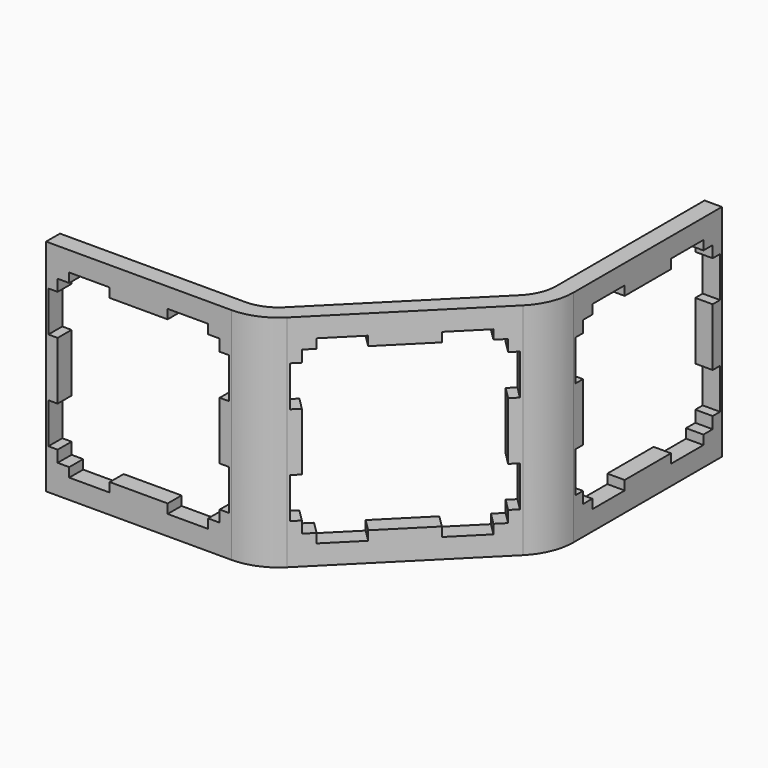
from build123d import *

# Parameters (mm, degrees)
PAD_DEPTH       = 19
POCKET_DEPTH    = 11.62232
POCKET002_DEPTH = 1.501
POCKET003_DEPTH = 1.501


with BuildPart() as part:
    # Sketch → Pad (new body)
    with BuildSketch(Plane.XY):
        with BuildLine():
            Line((0, 0), (16, 0))
            ThreePointArc((16, 0), (17.959845, 0.389838), (19.62132, 1.500001))
            Line((19.62132, 1.500001), (30.935023, 12.813715))
            ThreePointArc((30.935023, 12.813715), (32.045185, 14.475191), (32.435022, 16.435035))
            Line((32.435022, 32.435035), (32.435022, 16.435035))
            Line((30.935022, 32.435035), (32.435022, 32.435035))
            Line((30.935022, 16.435035), (30.935022, 32.435035))
            ThreePointArc((29.874363, 13.874375), (30.659366, 15.049216), (30.935022, 16.435035))
            Line((29.874363, 13.874375), (18.56066, 2.560661))
            ThreePointArc((16, 1.5), (17.385819, 1.775657), (18.56066, 2.560661))
            Line((16, 1.5), (0, 1.5))
            Line((0, 1.5), (0, 0))
        make_face()
    extrude(amount=PAD_DEPTH)

    # Sketch004 → Pocket (cut, through all)
    with BuildSketch(Plane(origin=(8.000009, -8.000001, 0), x_dir=(-0.707106, -0.707107, 0), z_dir=(-0.707107, 0.707106, 0))):
        Polygon((-28.935023, 17.3), (-25.435023, 17.3), (-25.435023, 16.5), (-20.435023, 16.5), (-20.435023, 17.3), (-16.935023, 17.3), (-16.935023, 16.5), (-15.935023, 16.5), (-15.935023, 15.5), (-15.135024, 15.5), (-15.135024, 12), (-15.935023, 12), (-15.935023, 7), (-15.135024, 7), (-15.135024, 3.5), (-15.935023, 3.5), (-15.935023, 2.5), (-16.935023, 2.5), (-16.935023, 1.7), (-20.435023, 1.7), (-20.435023, 2.5), (-25.435023, 2.5), (-25.435023, 1.7), (-28.935023, 1.7), (-28.935023, 2.5), (-29.935023, 2.5), (-29.935023, 3.5), (-30.735024, 3.5), (-30.735024, 7), (-29.935023, 7), (-29.935023, 12), (-30.735024, 12), (-30.735024, 15.5), (-29.935023, 15.5), (-29.935023, 16.5), (-28.935023, 16.5), align=None)
    extrude(amount=-POCKET_DEPTH, mode=Mode.SUBTRACT)

    # Sketch004001 → Pocket002 (cut, through all)
    with BuildSketch(Plane(origin=(30.935022, 0, 0), x_dir=(0, -1, 0), z_dir=(-1, 0, 0))):
        Polygon((-30.435035, 17.3), (-26.935035, 17.3), (-26.935035, 16.5), (-21.935035, 16.5), (-21.935035, 17.3), (-18.435035, 17.3), (-18.435035, 16.5), (-17.435035, 16.5), (-17.435035, 15.5), (-16.635036, 15.5), (-16.635036, 12), (-17.435035, 12), (-17.435035, 7), (-16.635036, 7), (-16.635036, 3.5), (-17.435035, 3.5), (-17.435035, 2.5), (-18.435035, 2.5), (-18.435035, 1.7), (-21.935035, 1.7), (-21.935035, 2.5), (-26.935035, 2.5), (-26.935035, 1.7), (-30.435035, 1.7), (-30.435035, 2.5), (-31.435035, 2.5), (-31.435035, 3.5), (-32.235036, 3.5), (-32.235036, 7), (-31.435035, 7), (-31.435035, 12), (-32.235036, 12), (-32.235036, 15.5), (-31.435035, 15.5), (-31.435035, 16.5), (-30.435035, 16.5), align=None)
    extrude(amount=-POCKET002_DEPTH, mode=Mode.SUBTRACT)

    # Sketch004001001 → Pocket003 (cut, through all)
    with BuildSketch(Plane(origin=(0, 1.5, 0), x_dir=(-1, 0, 0), z_dir=(0, 1, 0))):
        Polygon((-14, 17.3), (-10.5, 17.3), (-10.5, 16.5), (-5.5, 16.5), (-5.5, 17.3), (-2, 17.3), (-2, 16.5), (-1, 16.5), (-1, 15.5), (-0.200001, 15.5), (-0.200001, 12), (-1, 12), (-1, 7), (-0.200001, 7), (-0.200001, 3.5), (-1, 3.5), (-1, 2.5), (-2, 2.5), (-2, 1.7), (-5.5, 1.7), (-5.5, 2.5), (-10.5, 2.5), (-10.5, 1.7), (-14, 1.7), (-14, 2.5), (-15, 2.5), (-15, 3.5), (-15.800001, 3.5), (-15.800001, 7), (-15, 7), (-15, 12), (-15.800001, 12), (-15.800001, 15.5), (-15, 15.5), (-15, 16.5), (-14, 16.5), align=None)
    extrude(amount=-POCKET003_DEPTH, mode=Mode.SUBTRACT)


with BuildPart() as part_1:
    # Clone placement: moved
    add(part.part.moved(Location((2.38, -2.38, 19))))


solid = part_1.part
